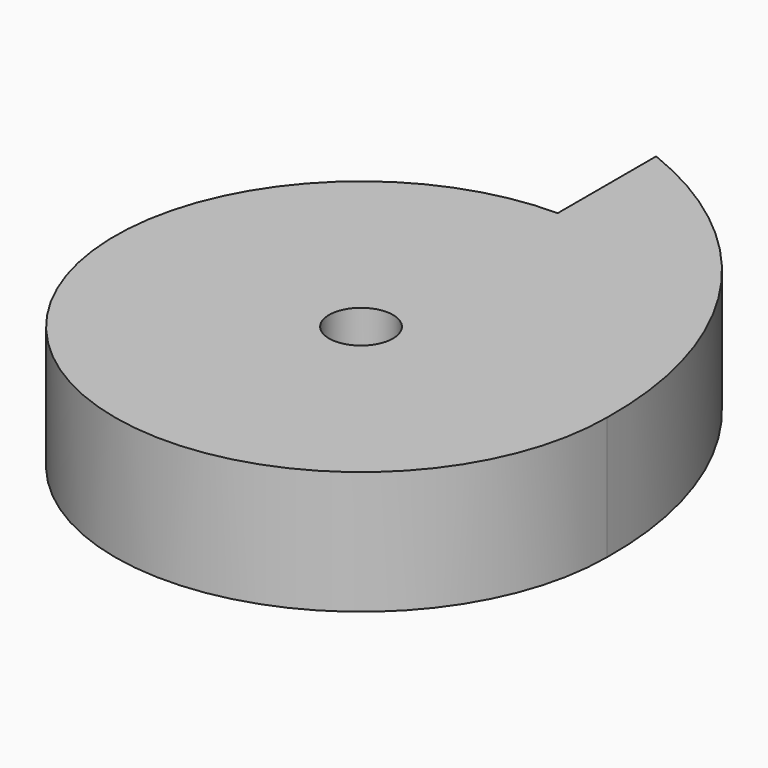
from build123d import *

# Parameters (mm, degrees)
F0_R     = 3.302
F1_DEPTH = 12.7


with BuildPart() as f1:
    # F0 (on Top) → F1 (new body)
    with BuildSketch(Plane.XY):
        with BuildLine():
            ThreePointArc((0, 25.4), (17.960512, 17.960512), (25.4, 0))
            ThreePointArc((25.4, 0), (18.667377, 23.028251), (0, 38.1))
            Line((0, 38.1), (0, 25.4))
        make_face()
        with BuildLine():
            ThreePointArc((0, 25.4), (-17.960512, -17.960512), (25.4, 0))
            ThreePointArc((25.4, 0), (17.960512, 17.960512), (0, 25.4))
        make_face()
        Circle(F0_R, mode=Mode.SUBTRACT)
    extrude(amount=F1_DEPTH)


solid = f1.part
